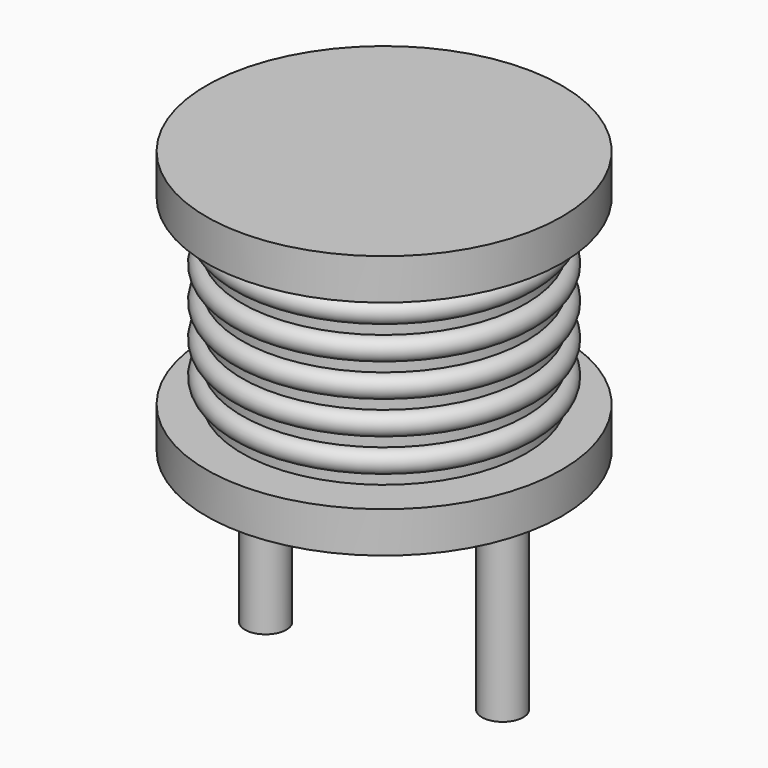
from build123d import *

# Parameters (mm, degrees)
SKETCH001_R  = 0.35
PAD001_DEPTH = 3.5


with BuildPart() as pad001:
    # Sketch001 → Pad001 (new body)
    with BuildSketch(Plane.XY.offset(0.5)):
        Circle(SKETCH001_R)
        with Locations((4, 0)):
            Circle(SKETCH001_R)
    extrude(amount=-PAD001_DEPTH)


with BuildPart() as revolution:
    # Sketch → Revolution (revolve)
    with BuildSketch(Plane(origin=(2, 0, 0), x_dir=(1, 0, 0), z_dir=(0, -1, 0))):
        Polygon((0, 0.05), (1.3, 0.05), (1.3, 0.2), (3, 0.2), (3, 0.89), (0.6, 0.89), (0.6, 3.96), (3, 3.96), (3, 4.65), (0, 4.65), align=None)
    revolve(axis=Axis((2, 0, 0), (0, 0, 1)))


with BuildPart() as revolution001:
    # Sketch002 → Revolution001 (revolve)
    with BuildSketch(Plane(origin=(2, 0, 0), x_dir=(1, 0, 0), z_dir=(0, -1, 0))):
        with BuildLine():
            Line((2.4, 0.94), (0.6, 0.94))
            Line((0.6, 0.94), (0.6, 3.91))
            Line((0.6, 3.91), (2.4, 3.91))
            Line((2.4, 3.91), (2.4, 3.724375))
            ThreePointArc((2.4, 3.353125), (2.585625, 3.53875), (2.4, 3.724375))
            Line((2.4, 3.353125), (2.4, 3.1675))
            ThreePointArc((2.4, 2.79625), (2.585625, 2.981875), (2.4, 3.1675))
            Line((2.4, 2.79625), (2.4, 2.610625))
            ThreePointArc((2.4, 2.239375), (2.585625, 2.425), (2.4, 2.610625))
            Line((2.4, 2.239375), (2.4, 2.05375))
            ThreePointArc((2.4, 1.6825), (2.585625, 1.868125), (2.4, 2.05375))
            Line((2.4, 1.6825), (2.4, 1.496875))
            ThreePointArc((2.4, 1.125625), (2.585625, 1.31125), (2.4, 1.496875))
            Line((2.4, 0.94), (2.4, 1.125625))
        make_face()
    revolve(axis=Axis((2, 0, 0), (0, 0, 1)))


solid = Compound([pad001.part, revolution.part, revolution001.part])
